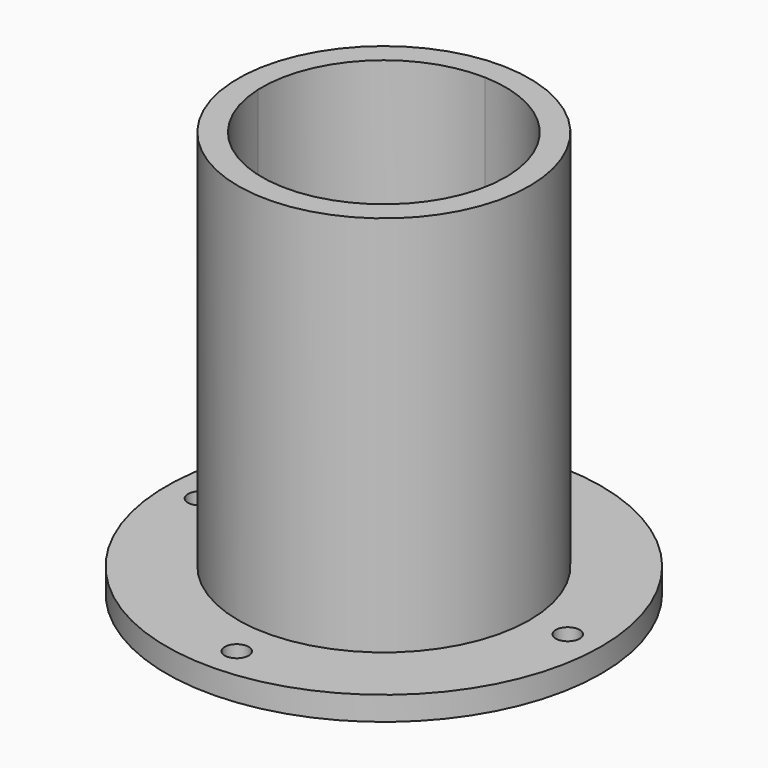
from build123d import *

# Parameters (mm, degrees)
F0_R     = 45.5
F0_R_2   = 30.5
F1_DEPTH = 5
F2_DEPTH = 85
F3_D     = 5
F3_DEPTH = 12
F3_TIP   = 1.5021515476
F4_START = 30
F4_DEPTH = 5


with BuildPart() as f1:
    # F0 (on Top) → F1 (new body)
    with BuildSketch(Plane.XY):
        Circle(F0_R)
        Circle(F0_R_2, mode=Mode.SUBTRACT)
    extrude(amount=F1_DEPTH)

    # F0 (on Top) → F2 (join)
    with BuildSketch(Plane.XY):
        Circle(F0_R_2)
        with BuildLine():
            ThreePointArc((25.4803305747, 1.0013759549), (25.4950821695, 0.5007845568), (25.5, 0))
            ThreePointArc((25.5, 0), (17.6934423844, -18.3627910893), (-0.9464389481, -25.4824302867))
            ThreePointArc((-0.9464389481, -25.4824302867), (-17.9941841556, -18.0681857577), (-25.4783314262, -1.051012719))
            ThreePointArc((-25.4783314262, -1.051012719), (-18.1421082442, 17.9196514602), (0.7366046437, 25.4893588307))
            ThreePointArc((0.7366046437, 25.4893588307), (17.937314442, 18.1246448409), (25.4803305747, 1.0013759549))
        make_face(mode=Mode.SUBTRACT)
    extrude(amount=F2_DEPTH)

    # F3
    with Locations(Plane(origin=(0, 0, 0), x_dir=(1, 0, 0), z_dir=(0, 0, -1))):
        with Locations((38.5, 0), (-38.5, 0), (0, 38.5), (0, -38.5)):
            Hole(F3_D / 2, depth=F3_DEPTH)
            with Locations((0, 0, -(F3_DEPTH + F3_TIP / 2))):  # 118° drill point
                Cone(0, F3_D / 2, F3_TIP, mode=Mode.SUBTRACT)

    # F0 (on Top) → F4 (join)
    with BuildSketch(Plane.XY.offset(F4_START)):
        with BuildLine():
            Line((20.4755279833, 1.0013759549), (25.4803305747, 1.0013759549))
            ThreePointArc((25.4803305747, 1.0013759549), (17.937314442, 18.1246448409), (0.7366046437, 25.4893588307))
            Line((0.7366046437, 25.4893588307), (0.7366046437, 20.486761911))
            ThreePointArc((0.7366046437, 20.486761911), (14.4016911893, 14.5890812215), (20.4755279833, 1.0013759549))
        make_face()
        with BuildLine():
            ThreePointArc((-25.4783314262, -1.051012719), (-17.9941841556, -18.0681857577), (-0.9464389481, -25.4824302867))
            Line((-0.9464389481, -25.4824302867), (-0.9464389481, -20.4781408658))
            ThreePointArc((-0.9464389481, -20.4781408658), (-14.4586253852, -14.5326581179), (-20.4730401324, -1.051012719))
            Line((-20.4730401324, -1.051012719), (-25.4783314262, -1.051012719))
        make_face()
    extrude(amount=F4_DEPTH)


solid = f1.part
